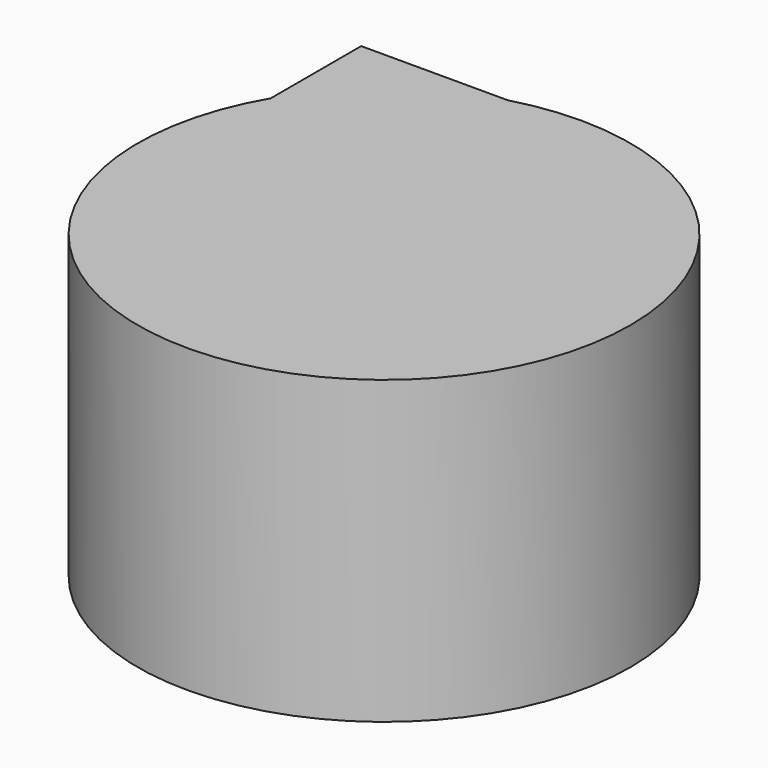
from build123d import *

# Parameters (mm, degrees)
F1_DEPTH = 40.132


with BuildPart() as f1:
    # F0 (on Top) → F1 (new body)
    with BuildSketch(Plane.XY):
        with BuildLine():
            ThreePointArc((-28.345644474, 16.5686166077), (-8.5827425011, -31.6911840754), (32.8328283421, 0))
            ThreePointArc((32.8328283421, 0), (19.85361464, 26.1501166856), (-8.8223465057, 31.6253192723))
            Line((-8.8223465057, 31.6253192723), (0, 31.6253192723))
            Line((0, 31.6253192723), (0, 0))
            Line((0, 0), (-28.345644474, 0))
            Line((-28.345644474, 0), (-28.345644474, 16.5686166077))
        make_face()
        with BuildLine():
            Line((0, 31.6253192723), (-8.8223465057, 31.6253192723))
            ThreePointArc((-8.8223465057, 31.6253192723), (-20.0509591329, 25.9991087307), (-28.345644474, 16.5686166077))
            Line((-28.345644474, 16.5686166077), (-28.345644474, 0))
            Line((-28.345644474, 0), (0, 0))
            Line((0, 0), (0, 31.6253192723))
        make_face()
        with BuildLine():
            ThreePointArc((-28.345644474, 16.5686166077), (-20.0509591329, 25.9991087307), (-8.8223465057, 31.6253192723))
            Line((-8.8223465057, 31.6253192723), (-28.345644474, 31.6253192723))
            Line((-28.345644474, 31.6253192723), (-28.345644474, 16.5686166077))
        make_face()
    extrude(amount=F1_DEPTH)


solid = f1.part
